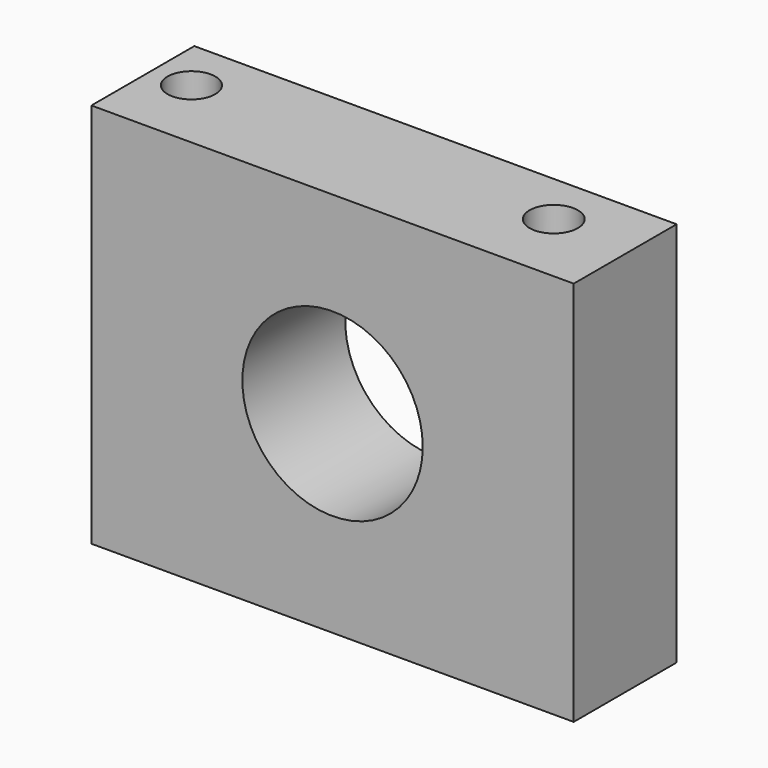
from build123d import *

# Parameters (mm, degrees)
F0_W     = 95.25
F0_H     = 76.2
F0_R     = 17.812688
F1_DEPTH = 25.4
F2_R     = 4.71978
F2_R_2   = 4.777232
F3_DEPTH = 254
F4_DEPTH = 254


with BuildPart() as f1:
    # F0 (on Front) → F1 (new body)
    with BuildSketch(Plane.XZ):
        with Locations((10.070114, 0)):
            Rectangle(F0_W, F0_H)
        with Locations((10.070114, 0)):
            Circle(F0_R, mode=Mode.SUBTRACT)
    extrude(amount=F1_DEPTH)

    # F2 (on face) → F3 (cut)
    with BuildSketch(Plane.XY.offset(38.1)):
        with Locations((-29.710518, -10.510667)):
            Circle(F2_R)
        with Locations((41.842777, -10.510667)):
            Circle(F2_R_2)
    extrude(amount=-F3_DEPTH, mode=Mode.SUBTRACT)

    # F2 (on face) → F4 (cut)
    with BuildSketch(Plane.XY.offset(38.1)):
        with Locations((-29.710518, -10.510667)):
            Circle(F2_R)
        with Locations((41.842777, -10.510667)):
            Circle(F2_R_2)
    extrude(amount=-F4_DEPTH, mode=Mode.SUBTRACT)


solid = f1.part
